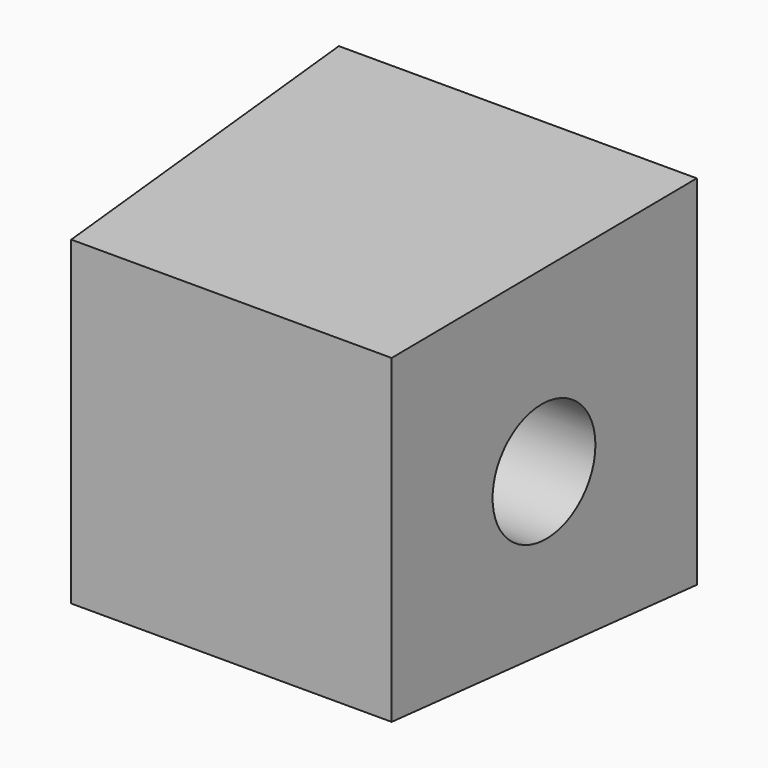
from build123d import *

# Parameters (mm, degrees)
F0_W     = 50.8
F0_H     = 50.8
F1_DEPTH = 50.8
F1_TAPER = 3
F2_R     = 8.5725
F3_DEPTH = 25.4


with BuildPart() as f1:
    # F0 (on Front) → F1 (new body)
    with BuildSketch(Plane.XZ):
        with Locations((25.4, 25.4)):
            Rectangle(F0_W, F0_H)
    extrude(amount=F1_DEPTH, taper=F1_TAPER)

    # F2 (on face) → F3 (cut)
    with BuildSketch(Plane(origin=(50.6608561424, -2.655022967, 0), x_dir=(0.0523359562, 0.9986295348, 0), z_dir=(0.9986295348, -0.0523359562, 0))):
        with Locations((-22.8110485996, 24.0688424062)):
            Circle(F2_R)
    extrude(amount=-F3_DEPTH, mode=Mode.SUBTRACT)


solid = f1.part
